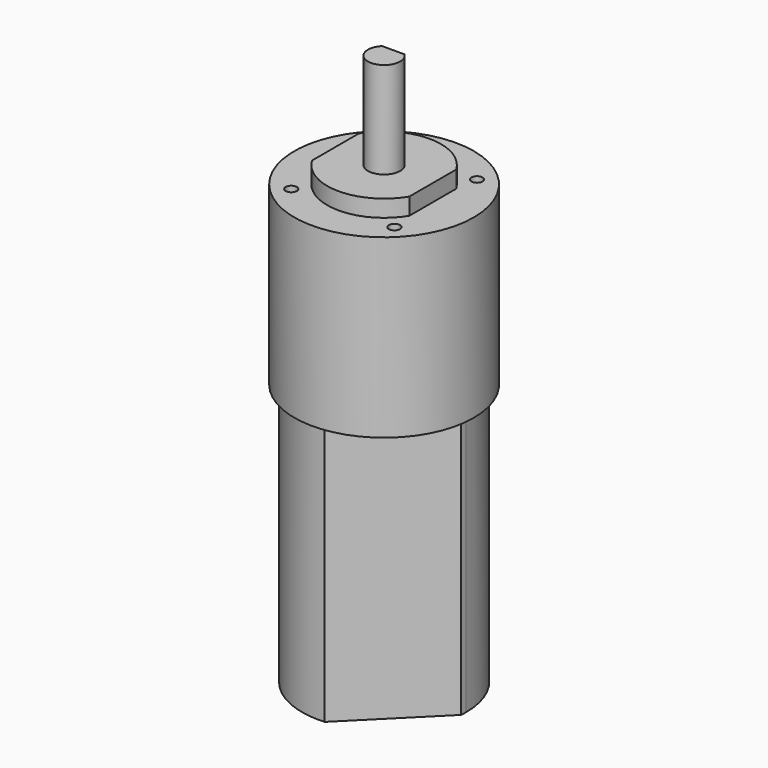
from build123d import *

# Parameters (mm, degrees)
F0_R      = 11.049
F1_DEPTH  = 21.717
F3_DEPTH  = 2.0828
F4_R      = 1.9812
F5_DEPTH  = 11.8618
F7_DEPTH  = 8.1788
F8_R      = 0.6858
F9_DEPTH  = 4.064
F11_DEPTH = 32.2072


with BuildPart() as f1:
    # F0 (on Top) → F1 (new body)
    with BuildSketch(Plane.XY):
        Circle(F0_R)
    extrude(amount=F1_DEPTH)

    # F2 (on face) → F3 (join)
    with BuildSketch(Plane.XY.offset(21.717)):
        with BuildLine():
            Line((5.9944, -3.610398), (5.9944, 3.610398))
            ThreePointArc((5.9944, 3.610398), (0, 6.9977), (-5.9944, 3.610398))
            Line((-5.9944, 3.610398), (-5.9944, -3.610398))
            ThreePointArc((-5.9944, -3.610398), (0, -6.9977), (5.9944, -3.610398))
        make_face()
    extrude(amount=F3_DEPTH)

    # F4 (on face) → F5 (join)
    with BuildSketch(Plane.XY.offset(23.7998)):
        Circle(F4_R)
    extrude(amount=F5_DEPTH)

    # F6 (on face) → F7 (cut)
    with BuildSketch(Plane.XY.offset(35.6616)):
        with BuildLine():
            ThreePointArc((1.379105, 1.4224), (0, 1.9812), (-1.379105, 1.4224))
            Line((-1.379105, 1.4224), (1.379105, 1.4224))
        make_face()
    extrude(amount=-F7_DEPTH, mode=Mode.SUBTRACT)

    # F8 (on face) → F9 (cut)
    with BuildSketch(Plane.XY.offset(21.717)):
        with Locations((-6.35, 6.35)):
            Circle(F8_R)
        with Locations((6.35, 6.35)):
            Circle(F8_R)
        with Locations((6.35, -6.35)):
            Circle(F8_R)
        with Locations((-6.35, -6.35)):
            Circle(F8_R)
    extrude(amount=-F9_DEPTH, mode=Mode.SUBTRACT)

    # F10 (on face) → F11 (join)
    with BuildSketch(Plane(origin=(0, 0, 0), x_dir=(1, 0, 0), z_dir=(0, 0, -1))):
        with BuildLine():
            ThreePointArc((-0.748756, -10.081433), (6.878466, -7.408281), (10.1092, 0))
            ThreePointArc((10.1092, 0), (10.102256, 0.374635), (10.081433, 0.748756))
            Line((10.081433, 0.748756), (0.748756, 10.081433))
            ThreePointArc((0.748756, 10.081433), (-7.148284, 7.148284), (-10.081433, -0.748756))
            Line((-10.081433, -0.748756), (-0.748756, -10.081433))
        make_face()
    extrude(amount=F11_DEPTH)


solid = f1.part
